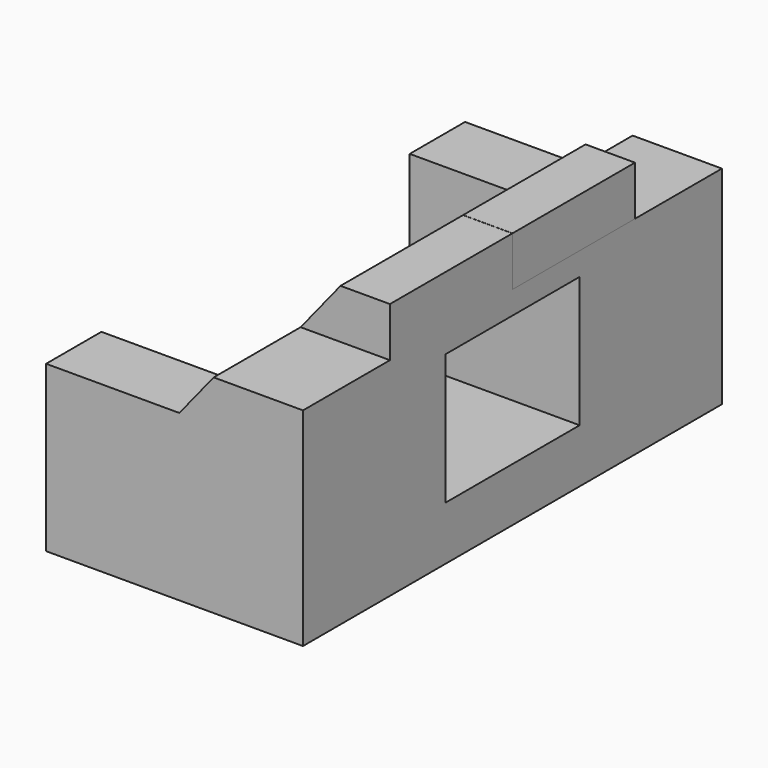
from build123d import *

# Parameters (mm, degrees)
F1_DEPTH = 265
F2_DEPTH = 70
F3_DEPTH = 264.922
F4_DEPTH = 110
F6_DEPTH = 85


with BuildPart() as f1:
    # F0 (on Front) → F1 (new body)
    with BuildSketch(Plane.XZ):
        Polygon((134.8846153846, 167), (0, 0), (260, 0), (260, 210), (169.6153846154, 210), align=None)
    extrude(amount=F1_DEPTH)

    # F0 (on Front) → F2 (join)
    with BuildSketch(Plane.XZ):
        Polygon((0, 167), (0, 0), (134.8846153846, 167), align=None)
    extrude(amount=F2_DEPTH)

    # F5 (on face) → F6 (cut)
    with BuildSketch(Plane.XZ.offset(265)):
        Polygon((260, 186.7058832489), (150.800905701, 186.7058832489), (43.9835974961, 54.4558826143), (260, 54.4558826143), align=None)
    extrude(amount=-F6_DEPTH, mode=Mode.SUBTRACT)

    # F7: F1, F3 across face


with BuildPart() as f3:
    # F0 (on Front) → F3 (new body)
    with BuildSketch(Plane.XZ):
        Polygon((210, 260), (169.6153846154, 210), (260, 210), (260, 260), align=None)
    extrude(amount=F3_DEPTH)

    # F4 (cut): a face of the model
    f4_faces = [f3.faces().sort_by_distance(p)[0] for p in [
        (223.9357218124, 0, 232.602739726),
    ]]
    extrude(f4_faces, amount=-F4_DEPTH, mode=Mode.SUBTRACT)


with BuildPart() as f1_1:
    add(f1.part)
    add(f1.part.mirror(Plane(origin=(140.6572281226, -265, 26.3893267798), x_dir=(1, 0, 0), z_dir=(0, -1, 0))))
    add(f3.part.mirror(Plane(origin=(140.6572281226, -265, 26.3893267798), x_dir=(1, 0, 0), z_dir=(0, -1, 0))))


solid = Compound([f3.part, f1_1.part])
